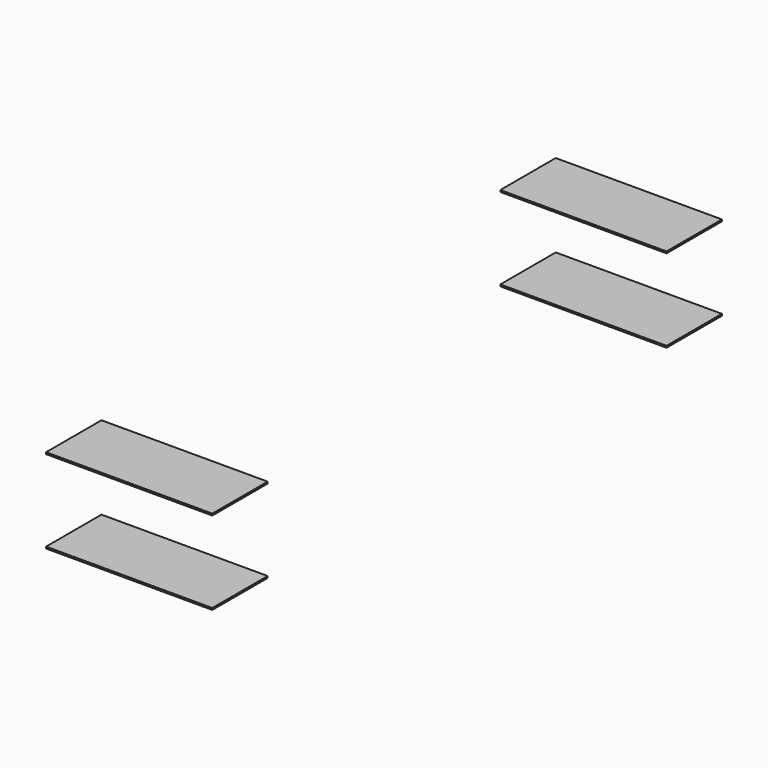
from build123d import *

# Parameters (mm, degrees)
SKETCH002_W      = 600
SKETCH002_H      = 250
PAD002_DEPTH     = 3.175
ARRAY010_Z_COUNT = 2
ARRAY010_Z_PITCH = 300
ARRAY011_COUNT   = 2
ARRAY011_ANGLE   = 180


with BuildPart() as part:
    # Sketch002 → Pad002 (new body, symmetric)
    with BuildSketch(Plane.XY):
        with Locations((0, 1025)):
            Rectangle(SKETCH002_W, SKETCH002_H)
    extrude(amount=PAD002_DEPTH, both=True)

    # Array010 Z: part ×2


with BuildPart() as part_1:
    add(part.part)
    with Locations(*[(0, 0, i * ARRAY010_Z_PITCH) for i in range(1, ARRAY010_Z_COUNT)]):
        add(part.part)


with BuildPart() as part_2:
    # Array010 placement: moved
    add(part_1.part.moved(Location((0, 0, 400))))

    # Array011: part ×2 about axis
    array011_axis = Axis((0, 0, 0), (0, 0, 1))


with BuildPart() as part_3:
    add(part_2.part)
    for i in range(1, ARRAY011_COUNT):
        add(part_2.part.rotate(array011_axis, i * ARRAY011_ANGLE / (ARRAY011_COUNT - 1)))


solid = part_3.part
